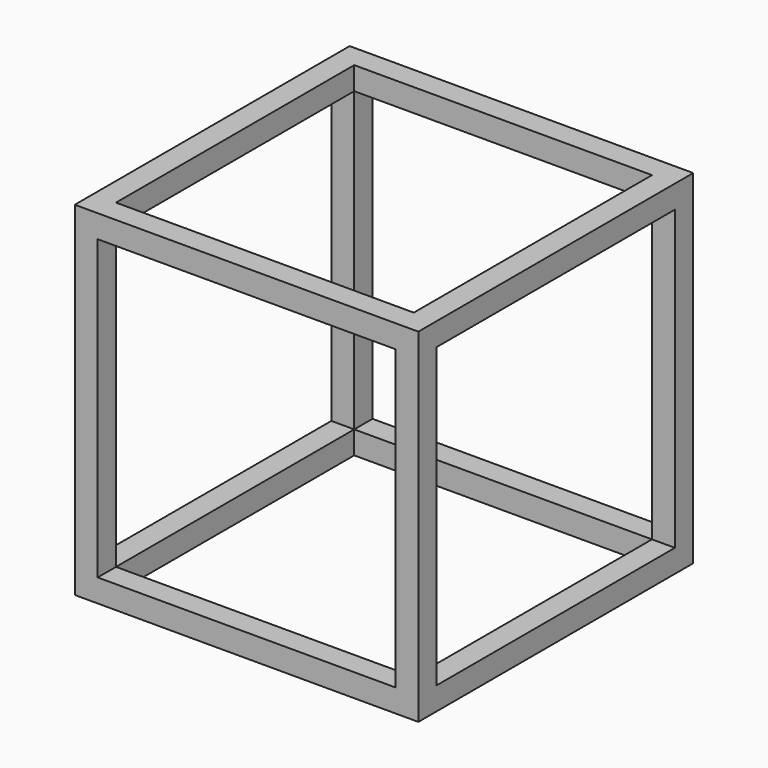
from build123d import *

# Parameters (mm, degrees)
F0_W     = 30
F0_H     = 30
F1_DEPTH = 30
F2_W     = 26
F2_H     = 26
F3_DEPTH = 30.001
F4_W     = 26
F4_H     = 26
F5_DEPTH = 30.001
F6_W     = 26
F6_H     = 26
F7_DEPTH = 30.001


with BuildPart() as f1:
    # F0 (on Right) → F1 (new body)
    with BuildSketch(Plane.YZ):
        with Locations((15, 15)):
            Rectangle(F0_W, F0_H)
    extrude(amount=F1_DEPTH)

    # F2 (on face) → F3 (cut, through all)
    with BuildSketch(Plane.XZ):
        with Locations((15, 15)):
            Rectangle(F2_W, F2_H)
    extrude(amount=-F3_DEPTH, mode=Mode.SUBTRACT)

    # F4 (on face) → F5 (cut, through all)
    with BuildSketch(Plane(origin=(0, 0, 0), x_dir=(0, -1, 0), z_dir=(-1, 0, 0))):
        with Locations((-15, 15)):
            Rectangle(F4_W, F4_H)
    extrude(amount=-F5_DEPTH, mode=Mode.SUBTRACT)

    # F6 (on face) → F7 (cut, through all)
    with BuildSketch(Plane.XY.offset(30)):
        with Locations((15, 15)):
            Rectangle(F6_W, F6_H)
    extrude(amount=-F7_DEPTH, mode=Mode.SUBTRACT)


solid = f1.part
